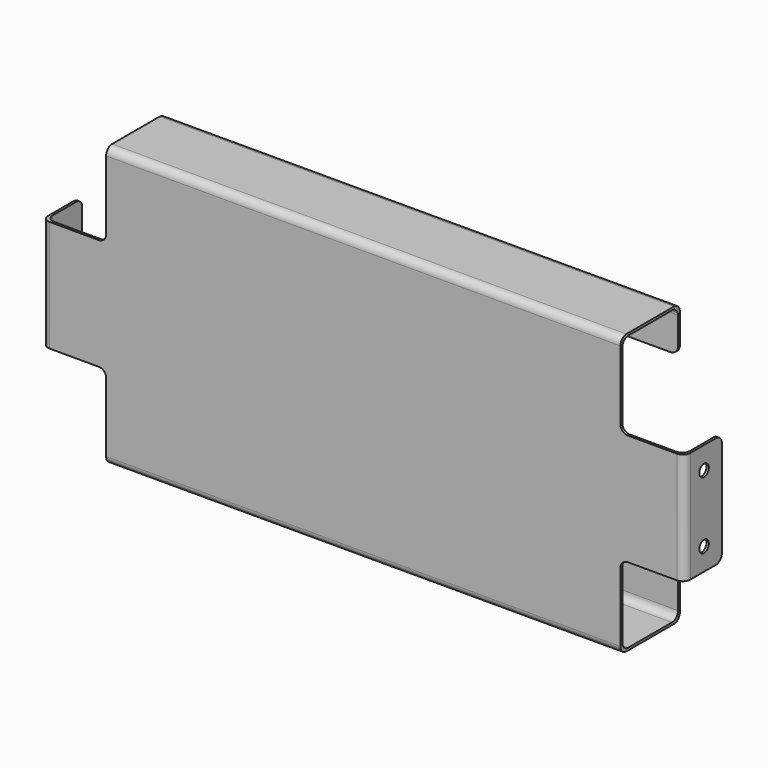
from build123d import *

# Parameters (mm, degrees)
F1_DEPTH = 173
F3_DEPTH = 43
F5_DEPTH = 43
F6_W     = 1.6
F6_H     = 75
F7_DEPTH = 30
F8_R     = 4
F9_DEPTH = 432.001
F10_R    = 5


with BuildPart() as f1:
    # F0 (on Right) → F1 (new body, symmetric)
    with BuildSketch(Plane.YZ):
        Polygon((0, 94), (0, 0), (0, -94), (50, -94), (50, -64), (48.4, -64), (48.4, -92.4), (1.6, -92.4), (1.6, 92.4), (48.4, 92.4), (48.4, 64), (50, 64), (50, 94), align=None)
    extrude(amount=F1_DEPTH, both=True)

    # F2 (on face) → F3 (join)
    with BuildSketch(Plane.YZ.offset(173)):
        Polygon((0, 37.5), (0, 0), (0, -37.5), (1.6, -37.5), (1.6, 37.5), align=None)
    extrude(amount=F3_DEPTH)

    # F4 (on face) → F5 (join)
    with BuildSketch(Plane(origin=(-173, 0, 0), x_dir=(0, -1, 0), z_dir=(-1, 0, 0))):
        Polygon((0, -37.5), (0, 0), (0, 37.5), (-1.6, 37.5), (-1.6, -37.5), align=None)
    extrude(amount=F5_DEPTH)

    # F6 (on face) → F7 (join)
    with BuildSketch(Plane(origin=(0, 1.6, 0), x_dir=(-1, 0, 0), z_dir=(0, 1, 0))):
        with Locations((-215.2, 0)):
            Rectangle(F6_W, F6_H)
        with Locations((215.2, 0)):
            Rectangle(F6_W, F6_H)
    extrude(amount=F7_DEPTH)

    # F8 (on face) → F9 (cut, through all)
    with BuildSketch(Plane.YZ.offset(216)):
        with Locations((16.6, 22.5)):
            Circle(F8_R)
        with Locations((16.6, -22.5)):
            Circle(F8_R)
    extrude(amount=-F9_DEPTH, mode=Mode.SUBTRACT)

    # F10
    f10_edges = [f1.edges().sort_by_distance(p)[0] for p in [
        (173, 0.8, 37.5),
        (215.2, 31.6, -37.5),
        (173, 0.8, -37.5),
        (173, 49.2, 64),
        (173, 49.2, -64),
        (215.2, 31.6, 37.5),
        (-173, 49.2, -64),
        (-173, 0.8, -37.5),
        (-215.2, 31.6, -37.5),
        (-215.2, 31.6, 37.5),
        (-173, 0.8, 37.5),
        (-173, 49.2, 64),
        (0, 50, -94),
        (0, 0, -94),
        (-216, 0, 0),
        (0, 1.6, -92.4),
        (0, 48.4, -92.4),
        (-214.4, 1.6, 0),
        (214.4, 1.6, 0),
        (216, 0, 0),
        (0, 0, 94),
        (0, 50, 94),
        (0, 48.4, 92.4),
        (0, 1.6, 92.4),
    ]]
    fillet(f10_edges, radius=F10_R)


solid = f1.part
